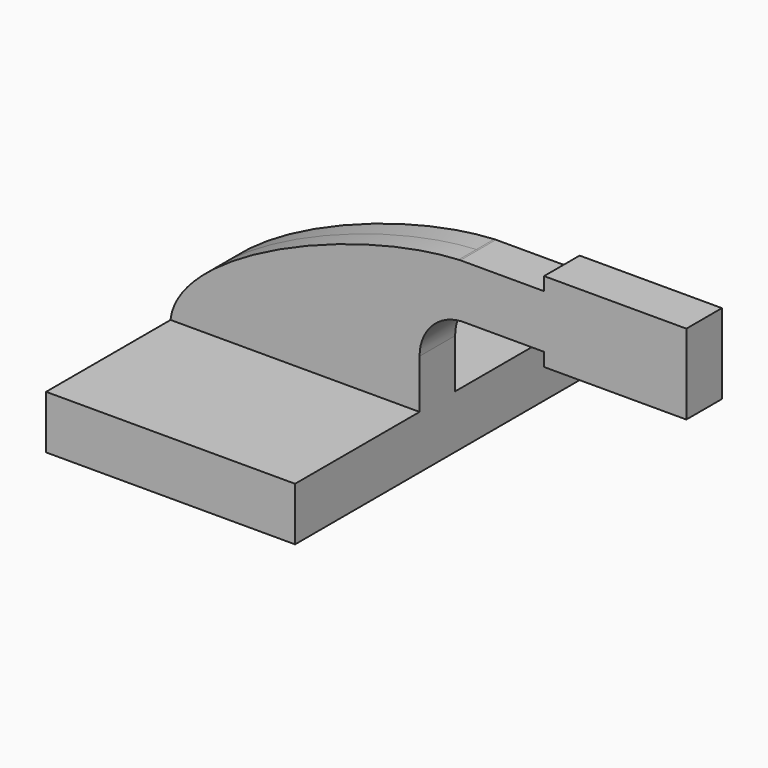
from build123d import *

# Parameters (mm, degrees)
F1_DEPTH = 63.5
F0_W     = 25.4
F0_H     = 4.7498
F0_H_2   = 4.7752
F2_DEPTH = 7.9375


with BuildPart() as f1:
    # F0 (on Front) → F1 (new body, symmetric)
    with BuildSketch(Plane.XZ):
        Polygon((25.4, 9.525), (-44.45, 9.525), (-44.45, -9.525), (44.45, -9.525), (44.45, 9.525), align=None)
    extrude(amount=F1_DEPTH, both=True)

    # F0 (on Front) → F2 (join, symmetric)
    with BuildSketch(Plane.XZ):
        with BuildLine():
            add(Edge.make_bspline(
                [(-44.45, 9.525), (-42.0019178226, 33.4759426415), (20.3692746454, 60.014643523), (58.4090455621, 61.8969537879)],
                knots=[0, 0, 0, 0, 115.3620955336, 115.3620955336, 115.3620955336, 115.3620955336], degree=3))
            Line((-44.45, 9.525), (25.4, 9.525))
            Line((25.4, 9.525), (25.4, 27.0245471661))
            ThreePointArc((25.4, 27.0245471661), (34.9609473492, 51.0333051125), (58.4090455621, 61.8969537879))
        make_face()
        Polygon((114.3, 66.675), (114.3, 61.9252), (114.3, 52.3875), (114.3, 42.8752), (114.3, 38.1), (139.7, 38.1), (139.7, 66.675), align=None)
        Polygon((114.3, 61.9252), (88.9, 61.9252), (88.9, 42.8752), (114.3, 42.8752), (114.3, 52.3875), align=None)
        with Locations((101.6, 64.3001)):
            Rectangle(F0_W, F0_H)
        with Locations((101.6, 40.4876)):
            Rectangle(F0_W, F0_H_2)
        with BuildLine():
            Line((25.4, 27.0245471661), (25.4, 9.525))
            Line((25.4, 9.525), (44.45, 9.525))
            Line((44.45, 9.525), (44.45, 27.0245471661))
            ThreePointArc((44.45, 27.0245471661), (48.793134536, 37.9347123308), (59.446120179, 42.8752))
            Line((59.446120179, 42.8752), (88.9, 42.8752))
            Line((88.9, 42.8752), (88.9, 61.9252))
            Line((88.9, 61.9252), (59.0211377493, 61.9252))
            add(Edge.make_bspline(
                [(58.4090455621, 61.8969537879), (58.6137855205, 61.9070848721), (58.8178206284, 61.9165016921), (59.0211377493, 61.9252)],
                knots=[115.3620955336, 115.3620955336, 115.3620955336, 115.3620955336, 115.9830043893, 115.9830043893, 115.9830043893, 115.9830043893], degree=3))
            ThreePointArc((58.4090455621, 61.8969537879), (34.9609473492, 51.0333051125), (25.4, 27.0245471661))
        make_face()
    extrude(amount=F2_DEPTH, both=True)


solid = f1.part
